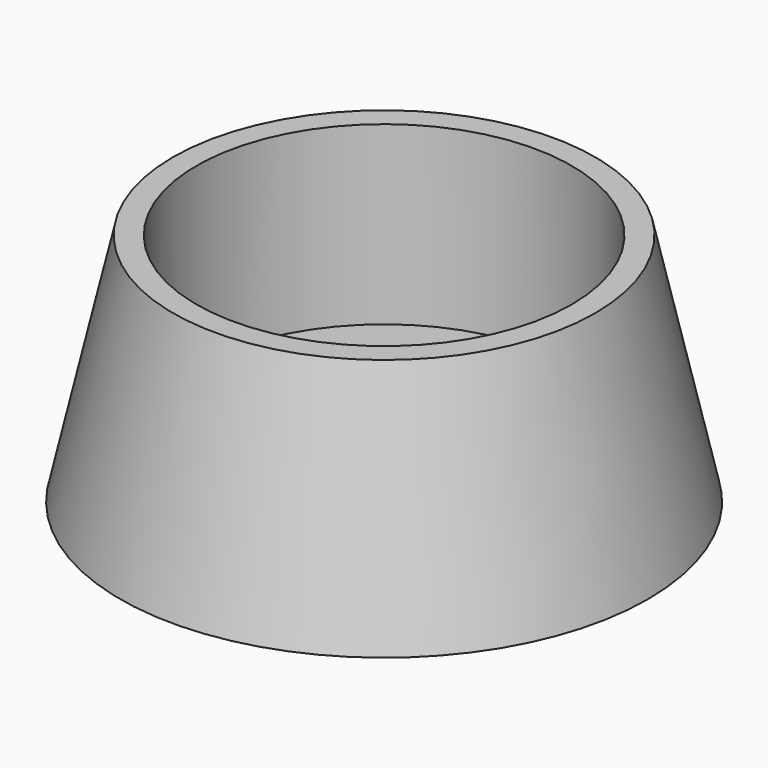
from build123d import *

# Parameters (mm, degrees)
F2_R     = 22.86
F0_R     = 28.575
F4_R     = 20.32
F5_DEPTH = 19.0754


with BuildPart() as f3:
    # F2 (on offset) → F3 section 0
    with BuildSketch(Plane.XY.offset(25.4)):
        Circle(F2_R)
    # F0 (on Top) → F3 section 1
    with BuildSketch(Plane.XY):
        Circle(F0_R)
    loft()

    # F4 (on offset) → F5 (cut)
    with BuildSketch(Plane.XY.offset(25.4)):
        Circle(F4_R)
    extrude(amount=-F5_DEPTH, mode=Mode.SUBTRACT)


solid = f3.part
